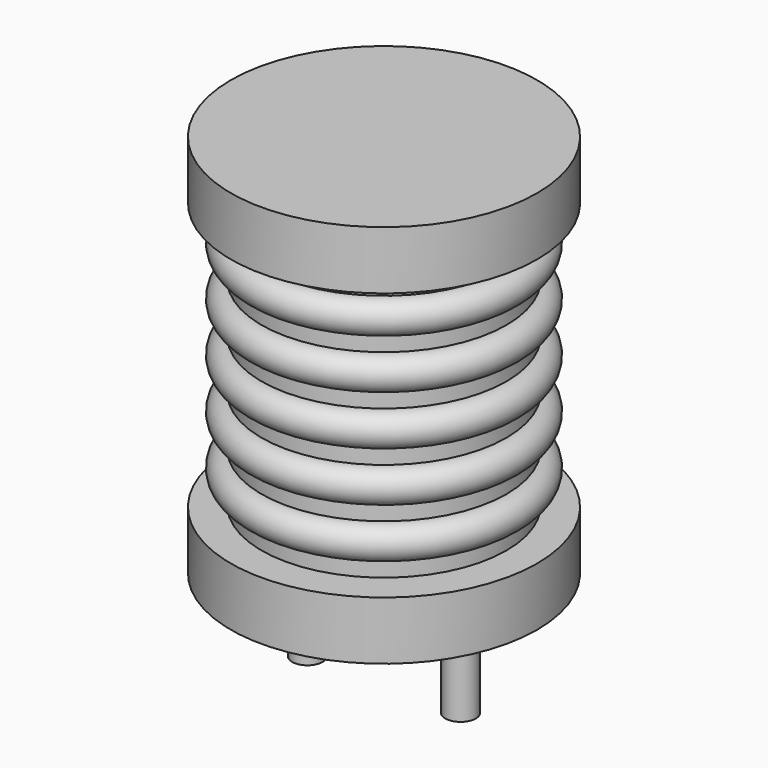
from build123d import *

# Parameters (mm, degrees)
SKETCH001_R  = 0.5
PAD001_DEPTH = 3.5


with BuildPart() as pad001:
    # Sketch001 → Pad001 (new body)
    with BuildSketch(Plane.XY.offset(0.5)):
        Circle(SKETCH001_R)
        with Locations((5, 0)):
            Circle(SKETCH001_R)
    extrude(amount=-PAD001_DEPTH)


with BuildPart() as revolution:
    # Sketch → Revolution (revolve)
    with BuildSketch(Plane(origin=(2.5, 0, 0), x_dir=(1, 0, 0), z_dir=(0, -1, 0))):
        Polygon((0, 0.05), (1.5, 0.05), (1.5, 0.2), (5, 0.2), (5, 2.105), (1, 2.105), (1, 10.845), (5, 10.845), (5, 12.75), (0, 12.75), align=None)
    revolve(axis=Axis((2.5, 0, 0), (0, 0, 1)))


with BuildPart() as revolution001:
    # Sketch002 → Revolution001 (revolve)
    with BuildSketch(Plane(origin=(2.5, 0, 0), x_dir=(1, 0, 0), z_dir=(0, -1, 0))):
        with BuildLine():
            Line((4, 2.155), (1, 2.155))
            Line((1, 2.155), (1, 10.795))
            Line((1, 10.795), (4, 10.795))
            Line((4, 10.795), (4, 10.255))
            ThreePointArc((4, 9.175), (4.54, 9.715), (4, 10.255))
            Line((4, 9.175), (4, 8.635))
            ThreePointArc((4, 7.555), (4.54, 8.095), (4, 8.635))
            Line((4, 7.555), (4, 7.015))
            ThreePointArc((4, 5.935), (4.54, 6.475), (4, 7.015))
            Line((4, 5.935), (4, 5.395))
            ThreePointArc((4, 4.315), (4.54, 4.855), (4, 5.395))
            Line((4, 4.315), (4, 3.775))
            ThreePointArc((4, 2.695), (4.54, 3.235), (4, 3.775))
            Line((4, 2.155), (4, 2.695))
        make_face()
    revolve(axis=Axis((2.5, 0, 0), (0, 0, 1)))


solid = Compound([pad001.part, revolution.part, revolution001.part])
